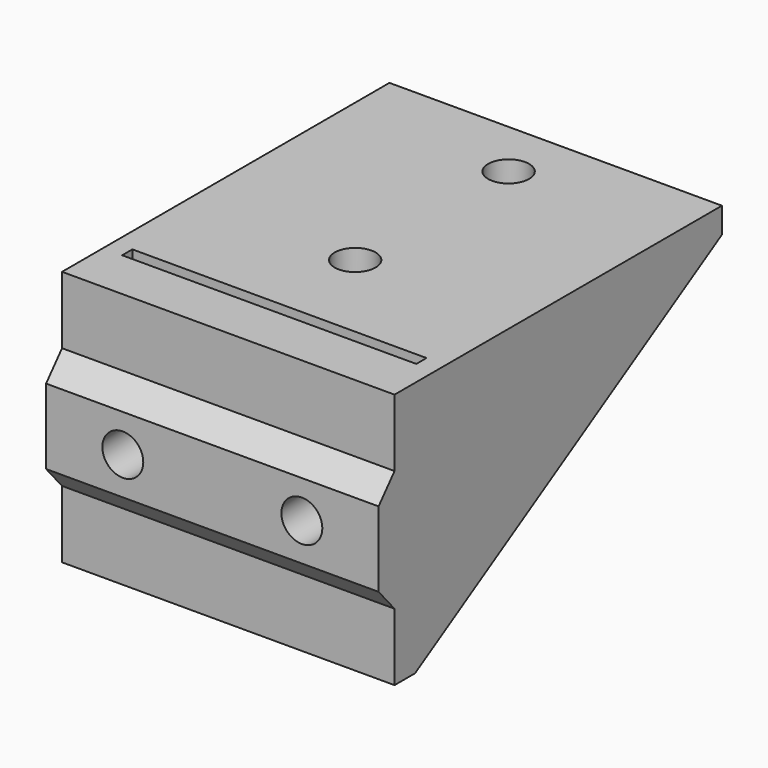
from build123d import *

# Parameters (mm, degrees)
SKETCH010_W         = 26
SKETCH010_H         = 30
SKETCH010_R         = 1.6
SKETCH010_W_2       = 23
SKETCH010_H_2       = 1
PAD009_DEPTH        = 2
PAD009_FACE3_W      = 26
PAD009_FACE3_H      = 2
PAD010_DEPTH        = 2
PAD010_FACE8_W      = 2
PAD010_FACE8_H      = 26
PAD011_DEPTH        = 18
PAD012_DEPTH        = 26
SKETCH012_R         = 1.6
POCKET006_DEPTH     = 33.561
PAD013_DEPTH        = 1.2
LINEARPATTERN_COUNT = 2
LINEARPATTERN_PITCH = 24.8


with BuildPart() as part:
    # Sketch010 → Pad009 (new body)
    with BuildSketch(Plane.XY):
        Rectangle(SKETCH010_W, SKETCH010_H)
        with Locations((0, 10.4)):
            Circle(SKETCH010_R, mode=Mode.SUBTRACT)
        with Locations((0, -4.6)):
            Circle(SKETCH010_R, mode=Mode.SUBTRACT)
        with Locations((0, -12.5)):
            Rectangle(SKETCH010_W_2, SKETCH010_H_2, mode=Mode.SUBTRACT)
    extrude(amount=PAD009_DEPTH)

    # Pad009 Face3 → Pad010 (add)
    with BuildSketch(Plane(origin=(0, -15, 1), x_dir=(-1, 0, 0), z_dir=(0, -1, 0))):
        Rectangle(PAD009_FACE3_W, PAD009_FACE3_H)
    extrude(amount=PAD010_DEPTH)

    # Pad010 Face8 → Pad011 (add)
    with BuildSketch(Plane(origin=(0, -16, 0), x_dir=(0, -1, 0), z_dir=(0, 0, -1))):
        Rectangle(PAD010_FACE8_W, PAD010_FACE8_H)
    extrude(amount=PAD011_DEPTH)

    # Sketch011 (on Face16 of Pad011) → Pad012 (join)
    with BuildSketch(Plane(origin=(-13, 0, 0), x_dir=(0, -1, 0), z_dir=(-1, 0, 0))):
        Polygon((17, -8), (17, -3.26), (18.56, -5.06), (18.56, -10.94), (17, -12.74), align=None)
    extrude(amount=-PAD012_DEPTH)

    # Sketch012 (on Face25 of Pad012) → Pocket006 (cut, through all)
    with BuildSketch(Plane.XZ.offset(18.56)):
        with Locations((-7, -8)):
            Circle(SKETCH012_R)
        with Locations((7, -8)):
            Circle(SKETCH012_R)
    extrude(amount=-POCKET006_DEPTH, mode=Mode.SUBTRACT)

    # Sketch013 (on Face16 of Pocket006) → Pad013 (join)
    with BuildSketch(Plane(origin=(-13, 0, 0), x_dir=(0, -1, 0), z_dir=(-1, 0, 0))):
        Polygon((-15, 0), (15, -18), (15, 0), align=None)
    pad013 = extrude(amount=-PAD013_DEPTH)

    # LinearPattern: Pad013 ×2
    with Locations(*[(i * LINEARPATTERN_PITCH, 0, 0) for i in range(1, LINEARPATTERN_COUNT)]):
        add(pad013)


with BuildPart() as part_1:
    # Body002 placement: moved
    add(part.part.moved(Location((-25, 78, 0))))


solid = part_1.part
